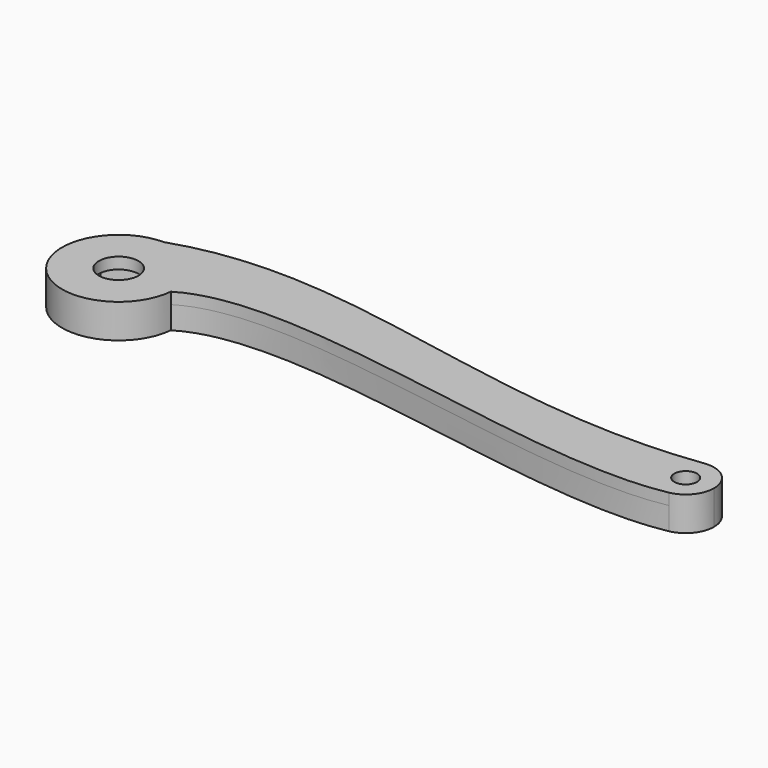
from build123d import *

# Parameters (mm, degrees)
F0_R     = 2
F1_DEPTH = 4
F0_R_2   = 3.5
F2_DEPTH = 2


with BuildPart() as f1:
    # F0 (on Top) → F1 (new body)
    with BuildSketch(Plane.XY):
        with BuildLine():
            ThreePointArc((9.954258, -0.95538), (9.988558, -0.478237), (10, 0))
            ThreePointArc((10, 0), (7.071068, 7.071068), (0, 10))
            ThreePointArc((0, 10), (-7.401142, -6.724812), (9.954258, -0.95538))
        make_face()
        Polygon((0, 6.928203), (6, 3.464102), (6, -3.464102), (0, -6.928203), (-6, -3.464102), (-6, 3.464102), align=None, mode=Mode.SUBTRACT)
        with BuildLine():
            ThreePointArc((0, 10), (7.071068, 7.071068), (10, 0))
            ThreePointArc((10, 0), (9.988558, -0.478237), (9.954258, -0.95538))
            add(Edge.make_bspline(
                [(9.954258, -0.95538), (26.252271, 9.146494), (77.480323, -9.485667), (100.957006, -4.907559)],
                knots=[0, 0, 0, 0, 90.880156, 90.880156, 90.880156, 90.880156], degree=3))
            ThreePointArc((100.957006, -4.907559), (95.064702, -0.801768), (99.354267, 4.958128))
            add(Edge.make_bspline(
                [(0, 10), (28.25126, 19.602439), (61.732644, 0.058391), (99.354267, 4.958128)],
                knots=[0, 0, 0, 0, 99.500751, 99.500751, 99.500751, 99.500751], degree=3))
        make_face()
        with BuildLine():
            ThreePointArc((105, 0), (103.299344, 3.756905), (99.354267, 4.958128))
            ThreePointArc((99.354267, 4.958128), (95.064702, -0.801768), (100.957006, -4.907559))
            ThreePointArc((100.957006, -4.907559), (103.859082, -3.179227), (105, 0))
        make_face()
        with Locations((100, 0)):
            Circle(F0_R, mode=Mode.SUBTRACT)
    extrude(amount=-F1_DEPTH)

    # F0 (on Top) → F2 (join)
    with BuildSketch(Plane.XY):
        with BuildLine():
            ThreePointArc((9.954258, -0.95538), (9.988558, -0.478237), (10, 0))
            ThreePointArc((10, 0), (7.071068, 7.071068), (0, 10))
            ThreePointArc((0, 10), (-7.401142, -6.724812), (9.954258, -0.95538))
        make_face()
        Polygon((0, 6.928203), (6, 3.464102), (6, -3.464102), (0, -6.928203), (-6, -3.464102), (-6, 3.464102), align=None, mode=Mode.SUBTRACT)
        with BuildLine():
            ThreePointArc((0, 10), (7.071068, 7.071068), (10, 0))
            ThreePointArc((10, 0), (9.988558, -0.478237), (9.954258, -0.95538))
            add(Edge.make_bspline(
                [(9.954258, -0.95538), (26.252271, 9.146494), (77.480323, -9.485667), (100.957006, -4.907559)],
                knots=[0, 0, 0, 0, 90.880156, 90.880156, 90.880156, 90.880156], degree=3))
            ThreePointArc((100.957006, -4.907559), (95.064702, -0.801768), (99.354267, 4.958128))
            add(Edge.make_bspline(
                [(0, 10), (28.25126, 19.602439), (61.732644, 0.058391), (99.354267, 4.958128)],
                knots=[0, 0, 0, 0, 99.500751, 99.500751, 99.500751, 99.500751], degree=3))
        make_face()
        with BuildLine():
            ThreePointArc((105, 0), (103.299344, 3.756905), (99.354267, 4.958128))
            ThreePointArc((99.354267, 4.958128), (95.064702, -0.801768), (100.957006, -4.907559))
            ThreePointArc((100.957006, -4.907559), (103.859082, -3.179227), (105, 0))
        make_face()
        with Locations((100, 0)):
            Circle(F0_R, mode=Mode.SUBTRACT)
        Polygon((6, -3.464102), (6, 3.464102), (0, 6.928203), (-6, 3.464102), (-6, -3.464102), (0, -6.928203), align=None)
        Circle(F0_R_2, mode=Mode.SUBTRACT)
    extrude(amount=F2_DEPTH)


solid = f1.part
